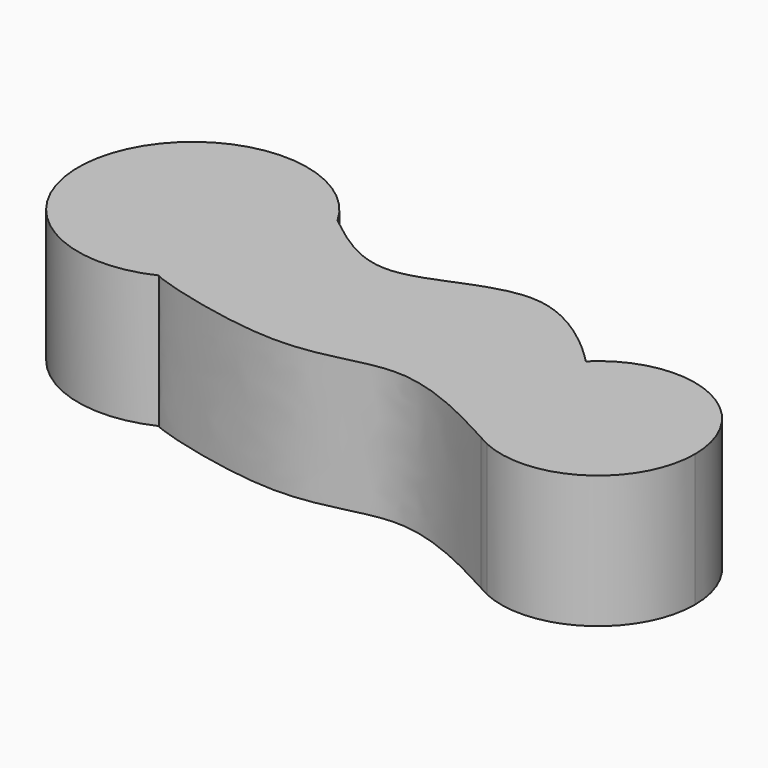
from build123d import *

# Parameters (mm, degrees)
F1_DEPTH = 22.606


with BuildPart() as f1:
    # F0 (on Top) → F1 (new body)
    with BuildSketch(Plane.XY):
        with BuildLine():
            ThreePointArc((-37.6039792391, 18.9616810435), (-29.8822722521, 26.1563417507), (-27.0308579859, 36.3179035485))
            ThreePointArc((-27.0308579859, 36.3179035485), (-27.6630825304, 41.2471599002), (-29.5188277427, 45.8573101973))
            ThreePointArc((-29.5188277427, 45.8573101973), (-65.1702168337, 42.2566429818), (-38.1964700726, 18.6684396975))
            add(Edge.make_bspline(
                [(-38.1964700726, 18.6684396975), (-38.2083524324, 18.7429925698), (-38.0319928053, 18.7704865981), (-37.9021074771, 18.811007899)],
                knots=[0.9247779179, 0.9247779179, 0.9247779179, 0.9247779179, 0.9621906948, 0.9621906948, 0.9621906948, 0.9621906948], degree=3))
            ThreePointArc((-37.9021074771, 18.811007899), (-37.7527212477, 18.8857071299), (-37.6039792391, 18.9616810435))
        make_face()
        with BuildLine():
            ThreePointArc((-29.5188277427, 45.8573101973), (-27.6630825304, 41.2471599002), (-27.0308579859, 36.3179035485))
            ThreePointArc((-27.0308579859, 36.3179035485), (-29.8822722521, 26.1563417507), (-37.6039792391, 18.9616810435))
            add(Edge.make_bspline(
                [(-37.9021074771, 18.811007899), (-37.7708455284, 18.8519586744), (-37.6870482371, 18.9062143311), (-37.6039792391, 18.9616810435)],
                knots=[0.9621906948, 0.9621906948, 0.9621906948, 0.9621906948, 1, 1, 1, 1], degree=3))
            ThreePointArc((-37.9021074771, 18.811007899), (-38.0489903508, 18.7391076379), (-38.1964700726, 18.6684396975))
            add(Edge.make_bspline(
                [(24.3777711193, 9.0463263689), (17.3674942299, 12.8505405604), (3.5369666325, 19.9063153535), (-11.7549260328, 10.2825463669), (-38.0950251355, 18.0319490066), (-38.1964700726, 18.6684396975)],
                knots=[0.0255333288, 0.0255333288, 0.0255333288, 0.0255333288, 0.3160909993, 0.6053685705, 0.9247779179, 0.9247779179, 0.9247779179, 0.9247779179], degree=3))
            ThreePointArc((24.3777711193, 9.0463263689), (16.7588886559, 21.282980543), (21.6483864933, 34.8430648446))
            add(Edge.make_bspline(
                [(-29.5188277427, 45.8573101973), (-24.9113893194, 42.2464117702), (-14.908337799, 34.4283406443), (5.6526779194, 51.0085921582), (21.1117736022, 35.3744040011), (21.5793714014, 34.911388117), (21.6483864933, 34.8430648446)],
                knots=[0, 0, 0, 0, 0.2953834357, 0.6404363104, 0.9469302642, 1, 1, 1, 1], degree=3))
        make_face()
        with BuildLine():
            add(Edge.make_bspline(
                [(-38.1964700726, 18.6684396975), (-38.2083524324, 18.7429925698), (-38.0319928053, 18.7704865981), (-37.9021074771, 18.811007899)],
                knots=[0.9247779179, 0.9247779179, 0.9247779179, 0.9247779179, 0.9621906948, 0.9621906948, 0.9621906948, 0.9621906948], degree=3))
            ThreePointArc((-38.1964700726, 18.6684396975), (-38.0489903508, 18.7391076379), (-37.9021074771, 18.811007899))
        make_face()
        with BuildLine():
            ThreePointArc((49.7058060089, 23.0210790546), (39.6007743191, 38.2442368897), (21.6483864933, 34.8430648446))
            ThreePointArc((21.6483864933, 34.8430648446), (16.7588886559, 21.282980543), (24.3777711193, 9.0463263689))
            add(Edge.make_bspline(
                [(26.2271219256, 8.0392741609), (25.6104707837, 8.3756469585), (24.9938130366, 8.7120235387), (24.3777711193, 9.0463263689)],
                knots=[0, 0, 0, 0, 0.0255333288, 0.0255333288, 0.0255333288, 0.0255333288], degree=3))
            ThreePointArc((26.2271219256, 8.0392741609), (42.0725386975, 9.0953556967), (49.7058060089, 23.0210790546))
        make_face()
        with BuildLine():
            add(Edge.make_bspline(
                [(26.2271219256, 8.0392741609), (25.6104707837, 8.3756469585), (24.9938130366, 8.7120235387), (24.3777711193, 9.0463263689)],
                knots=[0, 0, 0, 0, 0.0255333288, 0.0255333288, 0.0255333288, 0.0255333288], degree=3))
            ThreePointArc((24.3777711193, 9.0463263689), (25.2863836882, 8.513302474), (26.2271219256, 8.0392741609))
        make_face()
    extrude(amount=F1_DEPTH)


solid = f1.part
